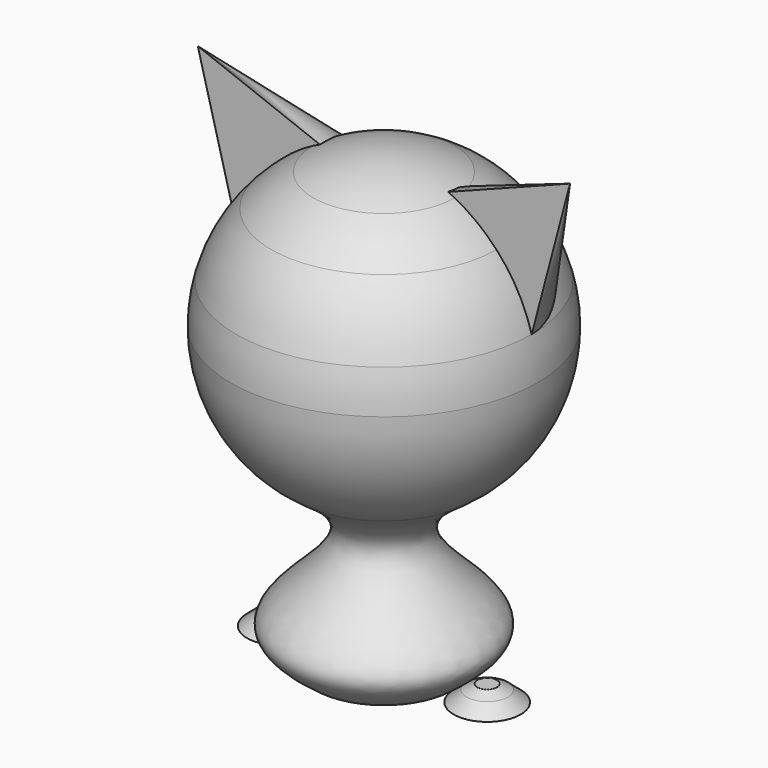
from build123d import *

# Parameters (mm, degrees)
F5_ANGLE = 180
F6_ANGLE = 180


with BuildPart() as f1:
    # F0 (on Front) → F1 (revolve)
    with BuildSketch(Plane.XZ):
        Polygon((-12.5956879929, -27.3843761533), (-9.5125313383, -27.3843761533), (-9.5125313383, -25.8927680552), (-10.4155214503, -25.8927680552), (-11.3987335935, -26.3682848997), align=None)
    revolve(axis=Axis((-9.5125313383, 0, -26.6385721043), (0, 0, 1)))


with BuildPart() as f2:
    # F0 (on Front) → F2 (revolve)
    with BuildSketch(Plane.XZ):
        Polygon((9.5125313383, -25.8927680552), (9.5125313383, -27.3843761533), (12.5956879929, -27.3843761533), (11.3987335935, -26.3682848997), (10.4155214503, -25.8927680552), align=None)
    revolve(axis=Axis((9.5125313383, 0, -26.6385721043), (0, 0, 1)))


with BuildPart() as f3:
    # F0 (on Front) → F3 (revolve)
    with BuildSketch(Plane.XZ):
        with BuildLine():
            Line((0, -27.3843761533), (0, -14.1218369735))
            ThreePointArc((0, -14.1218369735), (-4.2370057591, -13.4712308904), (-8.0836059746, -11.5793606885))
            add(Edge.make_bspline(
                [(-8.0836059746, -11.5793606885), (-5.9708379387, -13.0684049177), (-1.8274448123, -15.9900946539), (-7.1617027451, -20.87812623), (-10.4709666326, -24.3666738575), (-7.7902073219, -26.3682848997), (-6.4293746836, -27.3843761533)],
                knots=[0, 0, 0, 0, 0.2798102366, 0.5488431958, 0.7709765526, 1, 1, 1, 1], degree=3))
            Line((-6.4293746836, -27.3843761533), (0, -27.3843761533))
        make_face()
    revolve(axis=Axis((0, 0, -20.7531065634), (0, 0, 1)))


with BuildPart() as f4:
    # F0 (on Front) → F4 (revolve)
    with BuildSketch(Plane.XZ):
        with BuildLine():
            ThreePointArc((8.0836059746, -11.5793606885), (12.5216142178, -6.5295832094), (14.1218369735, 0))
            ThreePointArc((14.1218369735, 0), (13.9934517562, 1.8998914318), (13.6106304698, 3.7652380697))
            ThreePointArc((13.6106304698, 3.7652380697), (12.3386270645, 6.869101955), (10.3704577179, 9.5853996384))
            ThreePointArc((10.3704577179, 9.5853996384), (8.5702660374, 11.2239395737), (6.5154281839, 12.5289853973))
            ThreePointArc((6.5154281839, 12.5289853973), (3.3536539984, 13.717845471), (0, 14.1218369735))
            Line((0, 14.1218369735), (0, -14.1218369735))
            ThreePointArc((0, -14.1218369735), (4.2370057591, -13.4712308904), (8.0836059746, -11.5793606885))
        make_face()
    revolve(axis=Axis((0, 0, 0), (0, 0, -1)))


with BuildPart() as f5:
    # F0 (on Front) → F5 (revolve)
    with BuildSketch(Plane.XZ):
        with BuildLine():
            Line((-17.1450003982, 17.1450003982), (-13.6106304698, 3.7652380697))
            ThreePointArc((-13.6106304698, 3.7652380697), (-12.3386270645, 6.869101955), (-10.3704577179, 9.5853996384))
            Line((-10.3704577179, 9.5853996384), (-17.1450003982, 17.1450003982))
        make_face()
    revolve(axis=Axis((-13.757729058, 0, 13.3652000183), (0.6673794965, 0, -0.7447178041)), revolution_arc=F5_ANGLE)


with BuildPart() as f6:
    # F0 (on Front) → F6 (revolve)
    with BuildSketch(Plane.XZ):
        with BuildLine():
            ThreePointArc((10.3704577179, 9.5853996384), (12.3386270645, 6.869101955), (13.6106304698, 3.7652380697))
            Line((13.6106304698, 3.7652380697), (17.1450003982, 17.1450003982))
            Line((17.1450003982, 17.1450003982), (10.3704577179, 9.5853996384))
        make_face()
    revolve(axis=Axis((13.757729058, 0, 13.3652000183), (0.6673794965, 0, 0.7447178041)), revolution_arc=F6_ANGLE)


solid = Compound([f1.part, f2.part, f3.part, f4.part, f5.part, f6.part])
